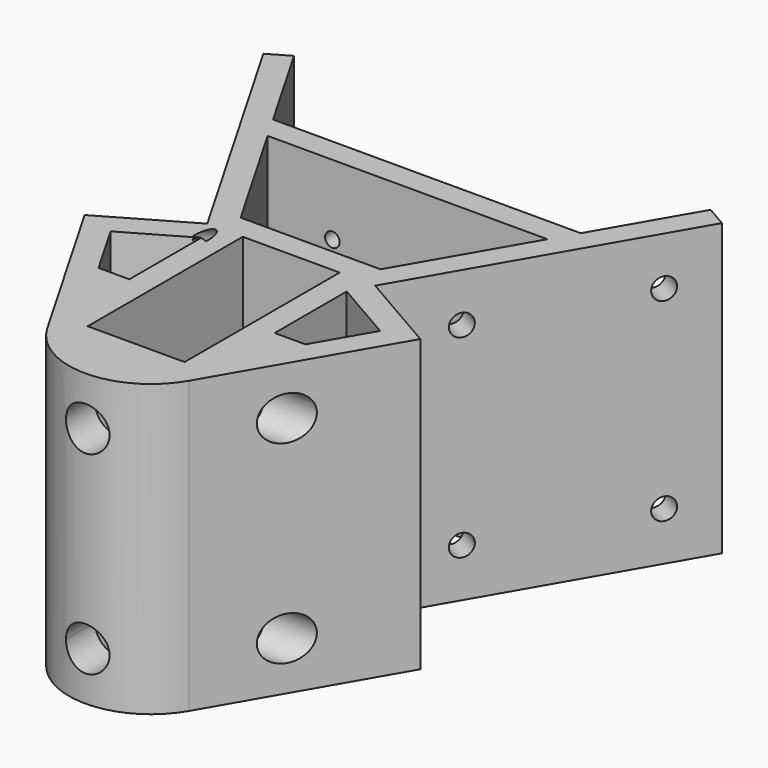
from build123d import *

# Parameters (mm, degrees)
F0_W      = 20
F0_H      = 40
F1_DEPTH  = 60
F2_R      = 1.5
F2_R_2    = 10
F3_DEPTH  = 6
F4_R      = 2.25
F5_DEPTH  = 6
F6_R      = 2.25
F7_DEPTH  = 6
F9_R      = 4.5
F9_R_2    = 2.25
F11_DEPTH = 20
F10_R     = 4.5
F10_R_2   = 2.25
F12_DEPTH = 20
F8_R      = 4.5
F8_R_2    = 2.25
F13_DEPTH = 20
F14_DEPTH = 25
F15_DEPTH = 25
F16_DEPTH = 25
F17_DEPTH = 15
F18_DEPTH = 15
F19_DEPTH = 15


with BuildPart() as f1:
    # F0 (on Top) → F1 (new body)
    with BuildSketch(Plane.XY):
        with BuildLine():
            Line((47.3205080757, 53.0098987629), (42.9903810568, 55.5098987629))
            Line((42.9903810568, 55.5098987629), (31.7542648054, 36.0483745358))
            Line((31.7542648054, 36.0483745358), (-31.7542648054, 36.0483745358))
            Line((-31.7542648054, 36.0483745358), (-42.9903810568, 55.5098987629))
            Line((-42.9903810568, 55.5098987629), (-47.3205080757, 53.0098987629))
            Line((-47.3205080757, 53.0098987629), (-17.3205080757, 1.0483745358))
            Line((-17.3205080757, 1.0483745358), (-34.6410161514, -8.9516254642))
            Line((-34.6410161514, -8.9516254642), (-14.6410161514, -43.5926416156))
            ThreePointArc((-14.6410161514, -43.5926416156), (0, -52.0456362318), (14.6410161514, -43.5926416156))
            Line((14.6410161514, -43.5926416156), (34.6410161514, -8.9516254642))
            Line((34.6410161514, -8.9516254642), (17.3205080757, 1.0483745358))
            Line((17.3205080757, 1.0483745358), (47.3205080757, 53.0098987629))
        make_face()
        Polygon((-15, -3.3853821939), (-15, -9.7067520427), (-15, -21.9678594557), (-21.3525872607, -21.9678594557), (-27.8108891325, -10.7817524831), align=None, mode=Mode.SUBTRACT)
        with Locations((0, -18.9516254642)):
            Rectangle(F0_W, F0_H, mode=Mode.SUBTRACT)
        Polygon((15, -21.9678594557), (15, -4.4697315388), (15, -3.3853821939), (27.8108891325, -10.7817524831), (21.3525872607, -21.9678594557), align=None, mode=Mode.SUBTRACT)
        Polygon((28.8675134595, 31.0483745358), (14.4337567297, 6.0483745358), (-14.4337567297, 6.0483745358), (-28.8675134595, 31.0483745358), align=None, mode=Mode.SUBTRACT)
    extrude(amount=F1_DEPTH)

    # F2 (on face) → F3 (cut)
    with BuildSketch(Plane(origin=(0, 36.0483745358, 0), x_dir=(-1, 0, 0), z_dir=(0, 1, 0))):
        with Locations((-15.5, 45.5)):
            Circle(F2_R)
        with Locations((15.5, 45.5)):
            Circle(F2_R)
        with Locations((15.5, 14.5)):
            Circle(F2_R)
        with Locations((-15.5, 14.5)):
            Circle(F2_R)
        with Locations((0, 30)):
            Circle(F2_R_2)
    extrude(amount=-F3_DEPTH, mode=Mode.SUBTRACT)

    # F4 (on face) → F5 (cut)
    with BuildSketch(Plane(origin=(-12.5364215664, -7.237906366, 0), x_dir=(0.5, -0.8660254038, 0), z_dir=(-0.8660254038, -0.5, 0))):
        with Locations((-24.5681730185, 50)):
            Circle(F4_R)
        with Locations((-59.5681730185, 50)):
            Circle(F4_R)
        with Locations((-59.5681730185, 10)):
            Circle(F4_R)
        with Locations((-24.5681730185, 10)):
            Circle(F4_R)
    extrude(amount=-F5_DEPTH, mode=Mode.SUBTRACT)

    # F6 (on face) → F7 (cut)
    with BuildSketch(Plane(origin=(12.5364215664, -7.237906366, 0), x_dir=(0.5, 0.8660254038, 0), z_dir=(0.8660254038, -0.5, 0))):
        with Locations((24.5681730185, 50)):
            Circle(F6_R)
        with Locations((59.5681730185, 50)):
            Circle(F6_R)
        with Locations((59.5681730185, 10)):
            Circle(F6_R)
        with Locations((24.5681730185, 10)):
            Circle(F6_R)
    extrude(amount=-F7_DEPTH, mode=Mode.SUBTRACT)

    # F9 (on face) → F11 (join)
    with BuildSketch(Plane.YZ.offset(-10)):
        with Locations((-28.9516254642, 50)):
            Circle(F9_R)
        with Locations((-28.9516254642, 50)):
            Circle(F9_R_2, mode=Mode.SUBTRACT)
        with Locations((-28.9516254642, 10)):
            Circle(F9_R)
        with Locations((-28.9516254642, 10)):
            Circle(F9_R_2, mode=Mode.SUBTRACT)
    extrude(amount=-F11_DEPTH)

    # F10 (on face) → F12 (join)
    with BuildSketch(Plane(origin=(10, 0, 0), x_dir=(0, -1, 0), z_dir=(-1, 0, 0))):
        with Locations((28.9516254642, 10)):
            Circle(F10_R)
        with Locations((28.9516254642, 10)):
            Circle(F10_R_2, mode=Mode.SUBTRACT)
        with Locations((28.9516254642, 50)):
            Circle(F10_R)
        with Locations((28.9516254642, 50)):
            Circle(F10_R_2, mode=Mode.SUBTRACT)
    extrude(amount=-F12_DEPTH)

    # F8 (on face) → F13 (join)
    with BuildSketch(Plane(origin=(0, -38.9516254642, 0), x_dir=(-1, 0, 0), z_dir=(0, 1, 0))):
        with Locations((0, 50)):
            Circle(F8_R)
        with Locations((0, 50)):
            Circle(F8_R_2, mode=Mode.SUBTRACT)
        with BuildLine():
            ThreePointArc((4.5, 10), (3.1819805153, 13.1819805153), (0, 14.5))
            ThreePointArc((0, 14.5), (-3.1819805153, 6.8180194847), (4.5, 10))
        make_face()
        with BuildLine():
            ThreePointArc((0, 12.25), (1.5909902577, 11.5909902577), (2.25, 10))
            ThreePointArc((2.25, 10), (-1.5909902577, 8.4090097423), (0, 12.25))
        make_face(mode=Mode.SUBTRACT)
    extrude(amount=-F13_DEPTH)

    # F10 (on face) → F14 (cut)
    with BuildSketch(Plane(origin=(10, 0, 0), x_dir=(0, -1, 0), z_dir=(-1, 0, 0))):
        with Locations((28.9516254642, 10)):
            Circle(F10_R_2)
        with Locations((28.9516254642, 50)):
            Circle(F10_R_2)
    extrude(amount=-F14_DEPTH, mode=Mode.SUBTRACT)

    # F9 (on face) → F15 (cut)
    with BuildSketch(Plane.YZ.offset(-10)):
        with Locations((-28.9516254642, 50)):
            Circle(F9_R_2)
        with Locations((-28.9516254642, 10)):
            Circle(F9_R_2)
    extrude(amount=-F15_DEPTH, mode=Mode.SUBTRACT)

    # F8 (on face) → F16 (cut)
    with BuildSketch(Plane(origin=(0, -38.9516254642, 0), x_dir=(-1, 0, 0), z_dir=(0, 1, 0))):
        with Locations((0, 50)):
            Circle(F8_R_2)
        with BuildLine():
            ThreePointArc((0, 12.25), (-1.5909902577, 8.4090097423), (2.25, 10))
            ThreePointArc((2.25, 10), (1.5909902577, 11.5909902577), (0, 12.25))
        make_face()
    extrude(amount=-F16_DEPTH, mode=Mode.SUBTRACT)

    # F17 (cut): faces of the model
    f17_faces = [f1.faces().sort_by_distance(p)[0] for p in [
        (4.3727207794, -58.9516254642, 10),
        (4.3727207794, -58.9516254642, 50),
    ]]
    extrude(f17_faces, amount=-F17_DEPTH, mode=Mode.SUBTRACT)

    # F18 (cut): faces of the model
    f18_faces = [f1.faces().sort_by_distance(p)[0] for p in [
        (30, -24.5789046848, 50),
        (30, -24.5789046848, 10),
    ]]
    extrude(f18_faces, amount=-F18_DEPTH, mode=Mode.SUBTRACT)

    # F19 (cut): faces of the model
    f19_faces = [f1.faces().sort_by_distance(p)[0] for p in [
        (-30, -33.3243462436, 10),
        (-30, -33.3243462436, 50),
    ]]
    extrude(f19_faces, amount=-F19_DEPTH, mode=Mode.SUBTRACT)

    # F22 (on 3pt) → F23 (revolve, cut)
    with BuildSketch(Plane(origin=(-15.0459854695, -0.2184772575, 0), x_dir=(-0.014519104, 0.9998945923, 0), z_dir=(0.9998945923, 0.014519104, 0))):
        Polygon((-3.0741950031, 61.4935897481), (-3.1692667399, 60.0088387728), (31.260818243, 45.5124080181), (31.260818243, 47.0371879637), align=None)
    revolve(axis=Axis((-15.2499175488, 13.8258179605, 52.7606233954), (-0.013381382, 0.9215425078, -0.3880468334)), mode=Mode.SUBTRACT)


solid = f1.part
